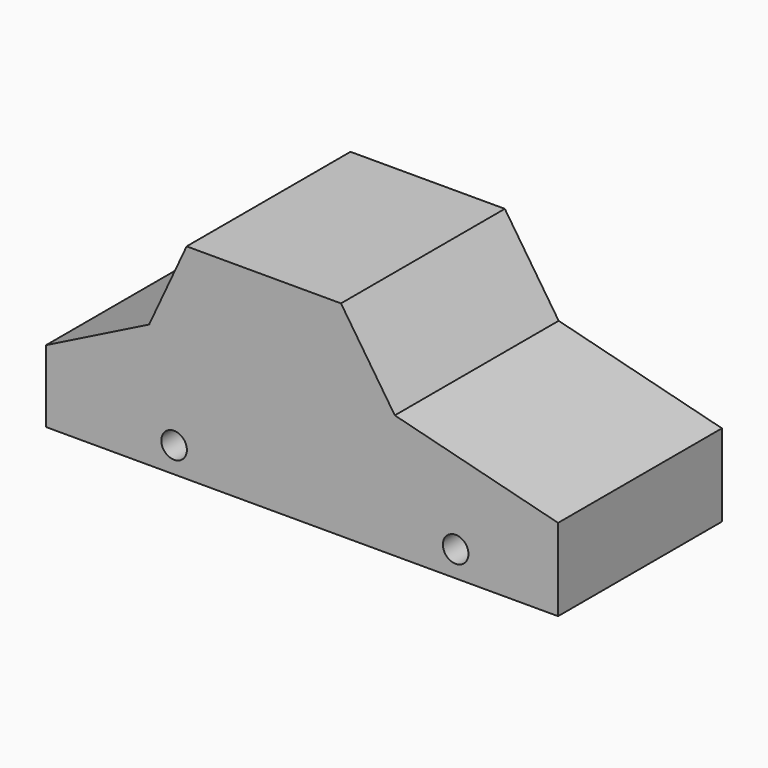
from build123d import *

# Parameters (mm, degrees)
F0_R     = 2.5
F1_DEPTH = 40


with BuildPart() as f1:
    # F0 (on Front) → F1 (new body)
    with BuildSketch(Plane.XZ):
        Polygon((-49.918547, 14.08916), (-49.918547, 0), (50.081453, 0), (50.081453, 16.049523), (18.19461, 24.166174), (7.678685, 40), (-22.467263, 40), (-29.798955, 24.166174), align=None)
        with Locations((-24.918547, 5)):
            Circle(F0_R, mode=Mode.SUBTRACT)
        with Locations((30.081453, 5)):
            Circle(F0_R, mode=Mode.SUBTRACT)
    extrude(amount=F1_DEPTH)


solid = f1.part
